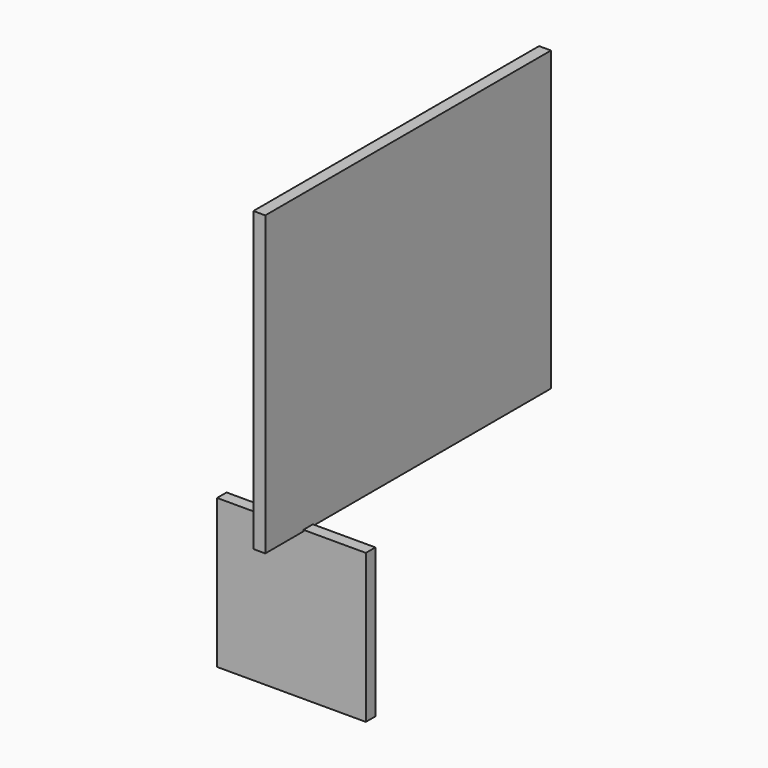
from build123d import *

# Parameters (mm, degrees)
F0_W     = 25
F0_H     = 25
F1_DEPTH = 2
F3_DEPTH = 2


with BuildPart() as f1:
    # F0 (on Front) → F1 (new body)
    with BuildSketch(Plane.XZ):
        Rectangle(F0_W, F0_H)
    extrude(amount=F1_DEPTH)

    # F2 (on Right) → F3 (join)
    with BuildSketch(Plane.YZ):
        Polygon((-10, 12.2555047274), (0, 12.2555047274), (50, 12.2555047274), (50, 62.2555047274), (-10, 62.2555047274), align=None)
    extrude(amount=F3_DEPTH)


solid = f1.part
